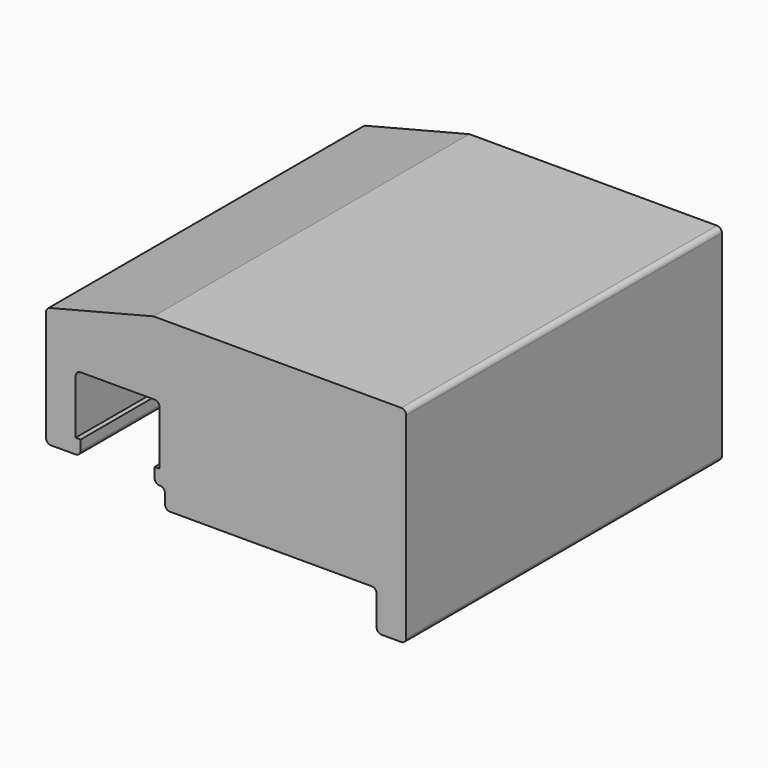
from build123d import *

# Parameters (mm, degrees)
F1_DEPTH = 40
F2_R     = 0.5


with BuildPart() as f1:
    # F0 (on Front) → F1 (new body)
    with BuildSketch(Plane.XZ):
        Polygon((16.105221, 13.393801), (-9.495474, 13.393801), (-20.394779, 10.626263), (-20.394779, -1.5), (-16.894779, -1.5), (-16.894779, 0), (-17.394779, 0), (-17.394779, 6), (-8.894779, 6), (-8.894779, 0), (-9.394779, 0), (-9.394779, -1.5), (-8.341564, -1.5), (-8.341564, -3.5), (13.105221, -3.5), (13.105221, -7.5), (16.105221, -7.5), align=None)
    extrude(amount=F1_DEPTH)

    # F2
    f2_edges = [f1.edges().sort_by_distance(p)[0] for p in [
        (-16.894779, -20, -1.5),
        (-8.341564, -20, -3.5),
        (13.105221, -20, -7.5),
        (16.105221, -20, -7.5),
        (16.105221, -20, 13.393801),
        (-20.394779, -20, -1.5),
        (-20.394779, -20, 10.626263),
        (-17.394779, -20, 6),
        (-8.894779, -20, 6),
        (13.105221, -20, -3.5),
        (-8.341564, -20, -1.5),
        (-9.394779, -20, -1.5),
    ]]
    fillet(f2_edges, radius=F2_R)


solid = f1.part
